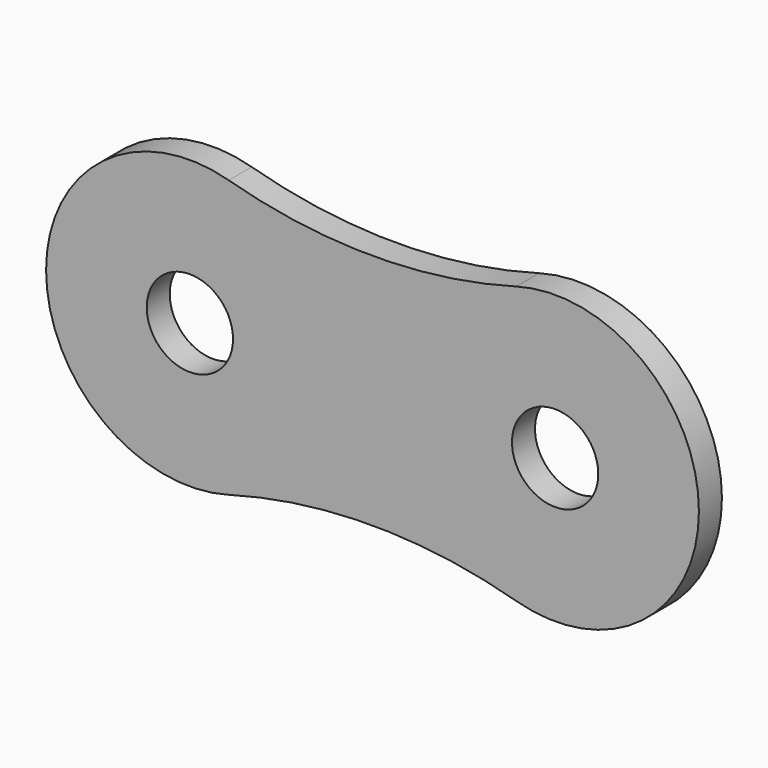
from build123d import *

# Parameters (mm, degrees)
F0_R     = 1.5
F1_DEPTH = 1


with BuildPart() as f1:
    # F0 (on Front) → F1 (new body)
    with BuildSketch(Plane.XZ):
        with BuildLine():
            ThreePointArc((5, 4.814302), (0, 4.12653), (-5, 4.814302))
            ThreePointArc((-5, 4.814302), (-11.35, 0), (-5, -4.814302))
            ThreePointArc((-5, -4.814302), (0, -4.12653), (5, -4.814302))
            ThreePointArc((5, -4.814302), (11.35, 0), (5, 4.814302))
        make_face()
        with Locations((-6.35, 0)):
            Circle(F0_R, mode=Mode.SUBTRACT)
        with Locations((6.35, 0)):
            Circle(F0_R, mode=Mode.SUBTRACT)
    extrude(amount=F1_DEPTH)


solid = f1.part
